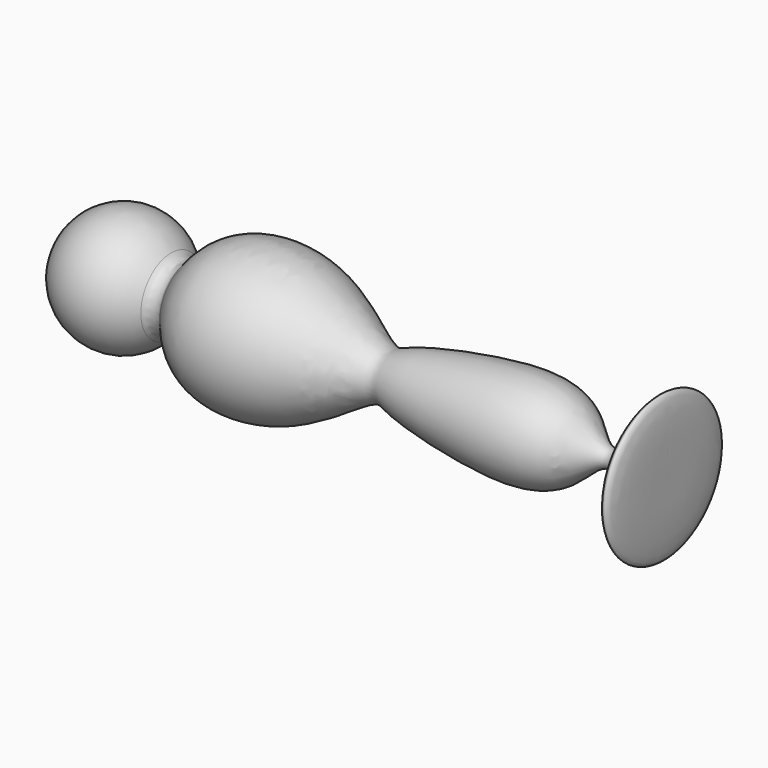
from build123d import *

# Parameters (mm, degrees)
F2_R = 1


with BuildPart() as f1:
    # F0 (on Front) → F1 (revolve)
    with BuildSketch(Plane.XZ):
        with BuildLine():
            ThreePointArc((-18.4099153466, 1.8584377076), (-23.9980273503, 4.9096307012), (-28.0517047954, 0))
            Line((-28.0517047954, 0), (21.9482952046, 0))
            add(Edge.make_bspline(
                [(-18.4099153466, 1.8584377076), (-17.7665423983, 2.9483095717), (-15.3627543108, 6.3366695536), (-7.61197706, 6.4281134873), (-1.6900438092, 1.3972537103), (0.0093231657, 2.5276339836), (7.9825832876, 4.0799065834), (14.2265756757, 3.917252432), (17.8447058312, -1.728056115), (21.9988860353, 9.6922629205), (21.9643509424, 3.0903910081), (21.9482952046, 0)],
                knots=[0.0341359261, 0.0341359261, 0.0341359261, 0.0341359261, 0.1107849118, 0.2422986904, 0.3653599042, 0.4250010018, 0.5562532502, 0.6754318519, 0.7680183613, 0.885257089, 1, 1, 1, 1], degree=3))
        make_face()
        with BuildLine():
            ThreePointArc((-18.4099153466, 1.8584377076), (-23.9980273503, 4.9096307012), (-28.0517047954, 0))
            Line((-28.0517047954, 0), (21.9482952046, 0))
            add(Edge.make_bspline(
                [(-18.4099153466, 1.8584377076), (-17.7665423983, 2.9483095717), (-15.3627543108, 6.3366695536), (-7.61197706, 6.4281134873), (-1.6900438092, 1.3972537103), (0.0093231657, 2.5276339836), (7.9825832876, 4.0799065834), (14.2265756757, 3.917252432), (17.8447058312, -1.728056115), (21.9988860353, 9.6922629205), (21.9643509424, 3.0903910081), (21.9482952046, 0)],
                knots=[0.0341359261, 0.0341359261, 0.0341359261, 0.0341359261, 0.1107849118, 0.2422986904, 0.3653599042, 0.4250010018, 0.5562532502, 0.6754318519, 0.7680183613, 0.885257089, 1, 1, 1, 1], degree=3))
        make_face()
    revolve(axis=Axis((-3.0517047954, 0, 0), (1, 0, 0)))

    # F2
    f2_edges = [f1.edges().sort_by_distance(p)[0] for p in [
        (-18.409915, 0, -1.858438),
    ]]
    fillet(f2_edges, radius=F2_R)


solid = f1.part
